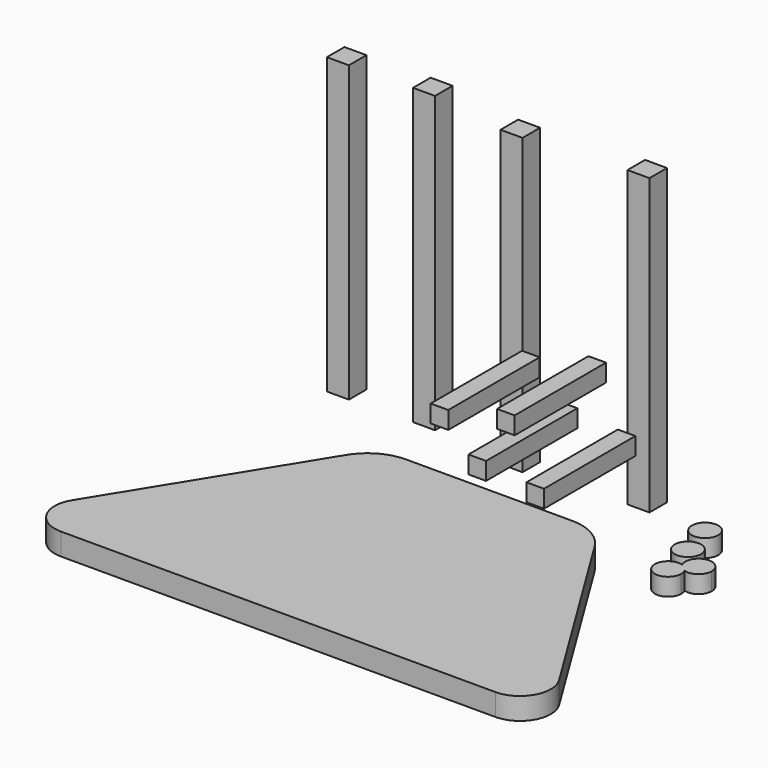
from build123d import *

# Parameters (mm, degrees)
F1_DEPTH = 6.35
F2_W     = 6.35
F2_H     = 6.35
F3_DEPTH = 85.09
F5_R     = 3.81
F6_DEPTH = 5.08
F4_W     = 5.08
F4_H     = 5.08
F7_DEPTH = 33.02


with BuildPart() as f1:
    # F0 (on Top) → F1 (new body)
    with BuildSketch(Plane.XY):
        with BuildLine():
            Line((23.952148, 38.1), (-23.952148, 38.1))
            ThreePointArc((-23.952148, 38.1), (-28.028467, 37.492055), (-31.75, 35.721134))
            Line((-31.75, 35.721134), (-31.75, -38.1))
            Line((-31.75, -38.1), (31.75, -38.1))
            Line((31.75, -38.1), (31.75, 35.721134))
            ThreePointArc((31.75, 35.721134), (28.028467, 37.492055), (23.952148, 38.1))
        make_face()
        with BuildLine():
            Line((-31.75, -38.1), (-31.75, 35.721134))
            ThreePointArc((-31.75, 35.721134), (-34.024133, 33.810703), (-35.843005, 31.462695))
            Line((-35.843005, 31.462695), (-70.380306, -24.543739))
            ThreePointArc((-70.380306, -24.543739), (-70.575972, -33.542958), (-62.813397, -38.1))
            Line((-62.813397, -38.1), (-31.75, -38.1))
        make_face()
        with BuildLine():
            ThreePointArc((35.843005, 31.462695), (34.024133, 33.810703), (31.75, 35.721134))
            Line((31.75, 35.721134), (31.75, -38.1))
            Line((31.75, -38.1), (62.813397, -38.1))
            ThreePointArc((62.813397, -38.1), (70.575972, -33.542958), (70.380306, -24.543739))
            Line((70.380306, -24.543739), (35.843005, 31.462695))
        make_face()
    extrude(amount=F1_DEPTH)


with BuildPart() as f3:
    # F2 (on Top) → F3 (new body)
    with BuildSketch(Plane.XY):
        with Locations((-10.331276, 62.332038)):
            Rectangle(F2_W, F2_H)
        with Locations((24.335895, 64.857461)):
            Rectangle(F2_W, F2_H)
        with Locations((-63.108242, 65.546215)):
            Rectangle(F2_W, F2_H)
        with Locations((-38.570102, 66.005379)):
            Rectangle(F2_W, F2_H)
    extrude(amount=F3_DEPTH)


with BuildPart() as f6:
    # F5 (on face) → F6 (new body)
    with BuildSketch(Plane.XY.offset(6.35)):
        with Locations((56.477647, 45.572411)):
            Circle(F5_R)
        with Locations((59.232652, 35.929885)):
            Circle(F5_R)
        with BuildLine():
            ThreePointArc((65.191969, 27.249216), (68.597527, 27.802736), (70.15976, 30.879039))
            ThreePointArc((70.15976, 30.879039), (65.503303, 34.593822), (62.91587, 29.228433))
            ThreePointArc((62.91587, 29.228433), (64.258121, 28.473656), (65.191969, 27.249216))
        make_face()
        with BuildLine():
            ThreePointArc((65.191969, 27.249216), (63.849718, 28.003993), (62.91587, 29.228433))
            ThreePointArc((62.91587, 29.228433), (58.681775, 23.350842), (65.568079, 25.59861))
            ThreePointArc((65.568079, 25.59861), (65.472861, 26.445067), (65.191969, 27.249216))
        make_face()
        with Locations((56.477647, 45.572411)):
            Circle(F5_R)
        with Locations((59.232652, 35.929885)):
            Circle(F5_R)
        with BuildLine():
            ThreePointArc((65.191969, 27.249216), (68.597527, 27.802736), (70.15976, 30.879039))
            ThreePointArc((70.15976, 30.879039), (65.503303, 34.593822), (62.91587, 29.228433))
            ThreePointArc((62.91587, 29.228433), (64.258121, 28.473656), (65.191969, 27.249216))
        make_face()
        with BuildLine():
            ThreePointArc((65.191969, 27.249216), (64.258121, 28.473656), (62.91587, 29.228433))
            ThreePointArc((62.91587, 29.228433), (63.849718, 28.003993), (65.191969, 27.249216))
        make_face()
        with BuildLine():
            ThreePointArc((65.191969, 27.249216), (68.597527, 27.802736), (70.15976, 30.879039))
            ThreePointArc((70.15976, 30.879039), (65.503303, 34.593822), (62.91587, 29.228433))
            ThreePointArc((62.91587, 29.228433), (64.258121, 28.473656), (65.191969, 27.249216))
        make_face()
    extrude(amount=F6_DEPTH)


with BuildPart() as f7:
    # F4 (on Front) → F7 (new body)
    with BuildSketch(Plane.XZ):
        with Locations((42.572917, 67.765154)):
            Rectangle(F4_W, F4_H)
        with Locations((53.493056, 58.349408)):
            Rectangle(F4_W, F4_H)
        with Locations((70.252679, 56.726009)):
            Rectangle(F4_W, F4_H)
        with Locations((61.758079, 72.63536)):
            Rectangle(F4_W, F4_H)
    extrude(amount=F7_DEPTH)


solid = Compound([f1.part, f3.part, f6.part, f7.part])
